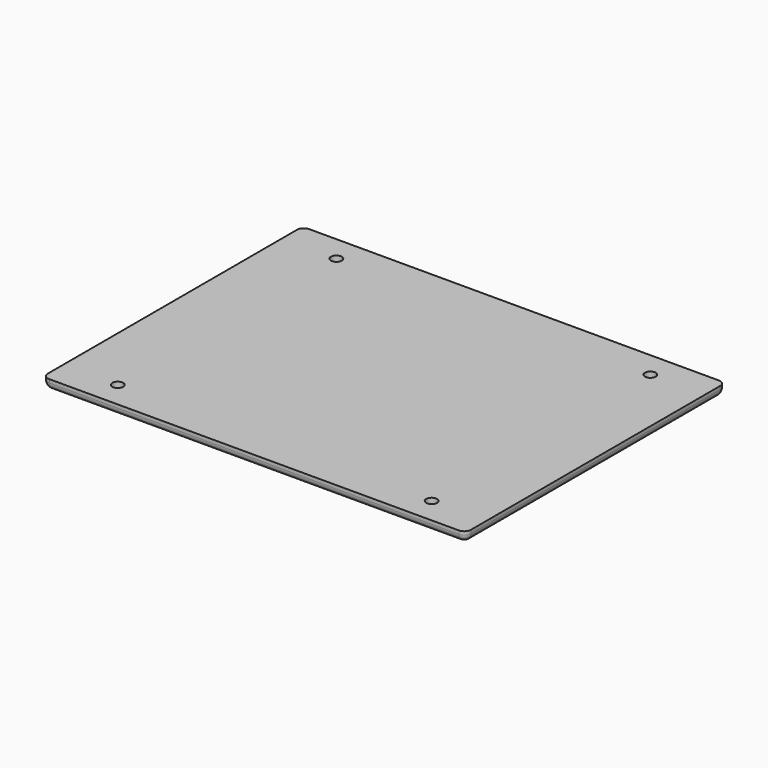
from build123d import *

# Parameters (mm, degrees)
SKETCH041_W      = 125
SKETCH041_H      = 96
EXTRUDE024_DEPTH = 3
SKETCH042_R      = 1.6
HOLE016_DEPTH    = 3
HOLE016_TIPS_R   = 1.6
FILLET002_R      = 2


with BuildPart() as part:
    # Sketch041 → Extrude024 (new body)
    with BuildSketch(Plane.XY):
        with Locations((15.050004, 71.699999)):
            Rectangle(SKETCH041_W, SKETCH041_H)
    extrude(amount=-EXTRUDE024_DEPTH)

    # Sketch042 (on Face6 of BaseFeature004) → Hole016 (cut)
    with BuildSketch(Plane(origin=(0, 0, -3), x_dir=(1, 0, 0), z_dir=(0, 0, -1))):
        with Locations((-31.331001, -31.335001)):
            Circle(SKETCH042_R)
        with Locations((-31.332001, -112.083005)):
            Circle(SKETCH042_R)
        with Locations((61.449498, -112.077997)):
            Circle(SKETCH042_R)
        with Locations((61.460003, -31.285001)):
            Circle(SKETCH042_R)
    extrude(amount=-HOLE016_DEPTH, mode=Mode.SUBTRACT)

    # Hole016 tips → Hole016 tip 1 section 0
    with BuildSketch(Plane(origin=(0, 0, 0), x_dir=(1, 0, 0), z_dir=(0, 0, -1)), mode=Mode.PRIVATE) as hole016_tip_1_s0:
        with Locations((-31.331001, -31.335001)):
            Circle(HOLE016_TIPS_R)
    loft([hole016_tip_1_s0.sketch, Vertex(-31.331001, 31.335001, 0.961377)], mode=Mode.SUBTRACT)

    # Hole016 tips → Hole016 tip 2 section 0
    with BuildSketch(Plane(origin=(0, 0, 0), x_dir=(1, 0, 0), z_dir=(0, 0, -1)), mode=Mode.PRIVATE) as hole016_tip_2_s0:
        with Locations((-31.332001, -112.083005)):
            Circle(HOLE016_TIPS_R)
    loft([hole016_tip_2_s0.sketch, Vertex(-31.332001, 112.083005, 0.961377)], mode=Mode.SUBTRACT)

    # Hole016 tips → Hole016 tip 3 section 0
    with BuildSketch(Plane(origin=(0, 0, 0), x_dir=(1, 0, 0), z_dir=(0, 0, -1)), mode=Mode.PRIVATE) as hole016_tip_3_s0:
        with Locations((61.449498, -112.077997)):
            Circle(HOLE016_TIPS_R)
    loft([hole016_tip_3_s0.sketch, Vertex(61.449498, 112.077997, 0.961377)], mode=Mode.SUBTRACT)

    # Hole016 tips → Hole016 tip 4 section 0
    with BuildSketch(Plane(origin=(0, 0, 0), x_dir=(1, 0, 0), z_dir=(0, 0, -1)), mode=Mode.PRIVATE) as hole016_tip_4_s0:
        with Locations((61.460003, -31.285001)):
            Circle(HOLE016_TIPS_R)
    loft([hole016_tip_4_s0.sketch, Vertex(61.460003, 31.285001, 0.961377)], mode=Mode.SUBTRACT)

    # Fillet002
    fillet002_edges = [part.edges().sort_by_distance(p)[0] for p in [
        (-47.449996, 23.699999, -1.5),
        (-47.449996, 71.699999, -3),
        (15.050004, 23.699999, -3),
        (77.550004, 23.699999, -1.5),
        (77.550004, 71.699999, -3),
        (77.550004, 119.699999, -1.5),
        (15.050004, 119.699999, -3),
        (-47.449996, 119.699999, -1.5),
    ]]
    fillet(fillet002_edges, radius=FILLET002_R)


with BuildPart() as part_1:
    # Body003 placement: moved
    add(part.part.moved(Location((0, 0, -41.83))))


solid = part_1.part
